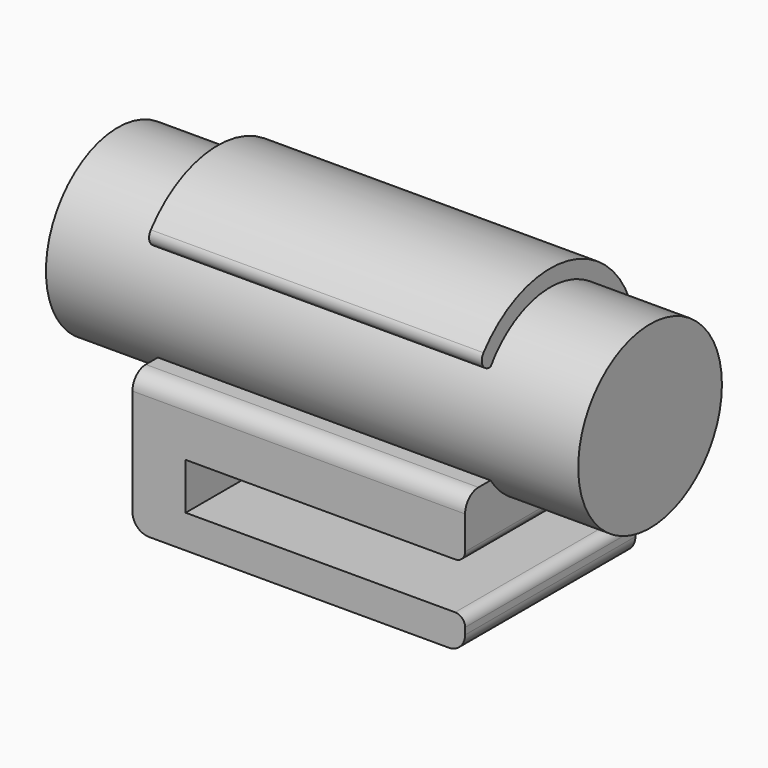
from build123d import *

# Parameters (mm, degrees)
SKETCH_R        = 13.5
PAD_DEPTH       = 40
SKETCH001_R     = 13.5
PAD001_DEPTH    = 25
SKETCH002_W     = 7
SKETCH002_H     = 42
POCKET_DEPTH    = 32
SKETCH003_W     = 15
SKETCH003_H     = 50
POCKET001_DEPTH = 5
FILLET_R        = 2.5
FILLET001_R     = 1.5
FILLET002_R     = 1.5
FILLET003_R     = 2.5


with BuildPart() as pipe:
    # Sketch → Pad (new body, symmetric)
    with BuildSketch(Plane.YZ):
        Circle(SKETCH_R)
    extrude(amount=PAD_DEPTH, both=True)


with BuildPart() as webcamholder:
    # Sketch001 → Pad001 (new body, symmetric)
    with BuildSketch(Plane.YZ):
        with BuildLine():
            ThreePointArc((16, 0), (0, 16), (-16, 0))
            Line((-16, 0), (-16, -28.5))
            Line((-16, -28.5), (16, -28.5))
            Line((16, -28.5), (16, 0))
        make_face()
        Circle(SKETCH001_R, mode=Mode.SUBTRACT)
    extrude(amount=PAD001_DEPTH, both=True)

    # Sketch002 (on Face2 of Pad001) → Pocket (cut)
    with BuildSketch(Plane(origin=(0, -16, 0), x_dir=(0, 0, -1), z_dir=(0, -1, 0))):
        with Locations((20, 4)):
            Rectangle(SKETCH002_W, SKETCH002_H)
    extrude(amount=-POCKET_DEPTH, mode=Mode.SUBTRACT)

    # Sketch003 (on Face3 of Pocket) → Pocket001 (cut)
    with BuildSketch(Plane(origin=(0, -16, 0), x_dir=(0, 0, -1), z_dir=(0, -1, 0))):
        Rectangle(SKETCH003_W, SKETCH003_H)
    extrude(amount=-POCKET001_DEPTH, mode=Mode.SUBTRACT)

    # Fillet
    fillet_edges = [webcamholder.edges().sort_by_distance(p)[0] for p in [
        (0, -16, -7.5),
    ]]
    fillet(fillet_edges, radius=FILLET_R)

    # Fillet001
    fillet001_edges = [webcamholder.edges().sort_by_distance(p)[0] for p in [
        (0, -14.133294, 7.5),
    ]]
    fillet(fillet001_edges, radius=FILLET001_R)

    # Fillet002
    fillet002_edges = [webcamholder.edges().sort_by_distance(p)[0] for p in [
        (25, 0, -16.5),
        (25, 0, -23.5),
    ]]
    fillet(fillet002_edges, radius=FILLET002_R)

    # Fillet003
    fillet003_edges = [webcamholder.edges().sort_by_distance(p)[0] for p in [
        (25, 0, -28.5),
        (-25, 0, -28.5),
    ]]
    fillet(fillet003_edges, radius=FILLET003_R)


solid = Compound([pipe.part, webcamholder.part])
